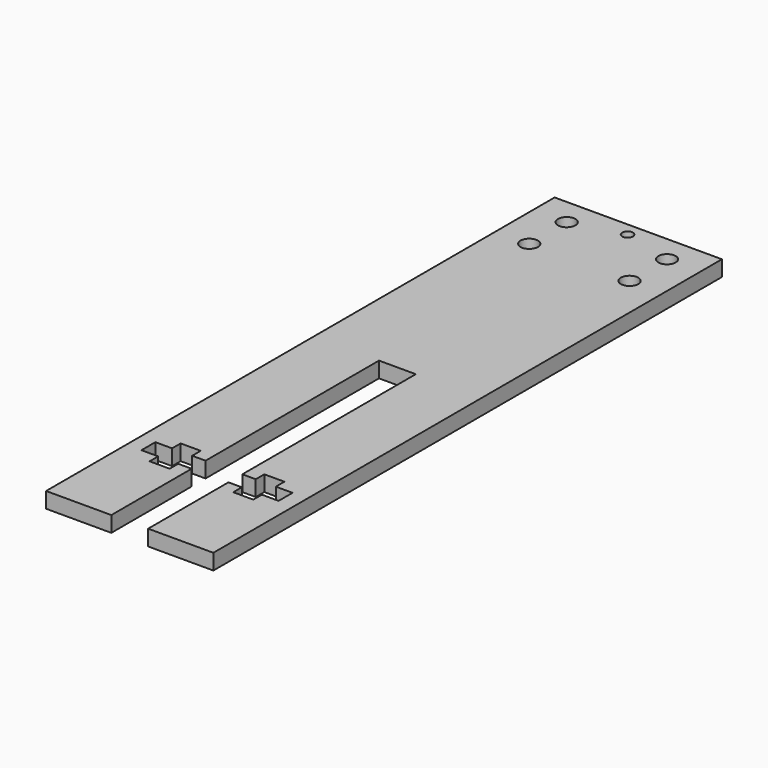
from build123d import *

# Parameters (mm, degrees)
F0_W     = 31.75
F0_H     = 120.65
F1_DEPTH = 2.9718
F2_R     = 1.651
F2_R_2   = 1.016
F2_W     = 3.175
F2_H     = 3.302
F2_W_2   = 2.54
F3_DEPTH = 25.4


with BuildPart() as f1:
    # F0 (on Top) → F1 (new body)
    with BuildSketch(Plane.XY):
        with Locations((15.875, 60.325)):
            Rectangle(F0_W, F0_H)
    extrude(amount=F1_DEPTH)

    # F2 (on face) → F3 (cut)
    with BuildSketch(Plane.XY.offset(2.9718)):
        with Locations((6.35, 115.57)):
            Circle(F2_R)
        with Locations((25.4, 115.57)):
            Circle(F2_R)
        with Locations((25.4, 106.68)):
            Circle(F2_R)
        with Locations((6.35, 106.68)):
            Circle(F2_R)
        with Locations((15.875, 118.11)):
            Circle(F2_R_2)
        Polygon((12.3825, 19.050001), (12.3825, 0), (19.3675, 0), (19.3675, 19.05), (19.3675, 22.352), (19.3675, 63.5), (12.3825, 63.5), (12.3825, 22.352001), align=None)
        Polygon((21.9075, 22.352), (21.9075, 19.05), (21.9075, 17.018), (25.7175, 17.018), (25.7175, 19.05), (25.7175, 22.352), (25.7175, 24.384), (21.9075, 24.384), align=None)
        with Locations((27.305, 20.701)):
            Rectangle(F2_W, F2_H)
        with Locations((20.6375, 20.701)):
            Rectangle(F2_W_2, F2_H)
        with Locations((11.1125, 20.701001)):
            Rectangle(F2_W_2, F2_H)
        Polygon((9.8425, 17.018001), (9.8425, 19.050001), (9.8425, 22.352001), (9.8425, 24.384001), (6.0325, 24.384001), (6.0325, 22.352001), (6.0325, 19.050001), (6.0325, 17.018001), align=None)
        with Locations((4.445, 20.701001)):
            Rectangle(F2_W, F2_H)
    extrude(amount=-F3_DEPTH, mode=Mode.SUBTRACT)


solid = f1.part
